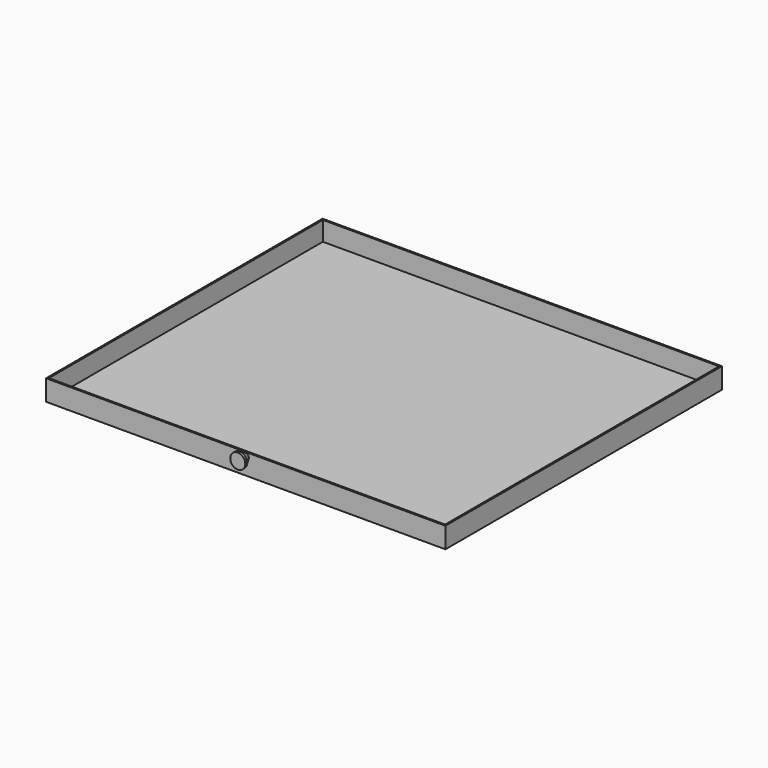
from build123d import *

# Parameters (mm, degrees)
F0_W     = 520
F0_H     = 450
F1_DEPTH = 2
F2_W     = 520
F2_H     = 450
F2_W_2   = 516
F2_H_2   = 446
F3_DEPTH = 25
F4_R     = 4
F5_DEPTH = 10
F5_TAPER = -30
F6_DEPTH = 3


with BuildPart() as f1:
    # F0 (on Top) → F1 (new body)
    with BuildSketch(Plane.XY):
        with Locations((-200.6801323552, -47.4835533649)):
            Rectangle(F0_W, F0_H)
    extrude(amount=F1_DEPTH)

    # F2 (on face) → F3 (join)
    with BuildSketch(Plane.XY.offset(2)):
        with Locations((-200.6801323552, -47.4835533649)):
            Rectangle(F2_W, F2_H)
        with Locations((-200.6801323552, -47.4835533649)):
            Rectangle(F2_W_2, F2_H_2, mode=Mode.SUBTRACT)
    extrude(amount=F3_DEPTH)

    # F4 (on face) → F5 (join)
    with BuildSketch(Plane.XZ.offset(272.4835533649)):
        with Locations((-200.6801323552, 21.8899310641)):
            Circle(F4_R)
    extrude(amount=F5_DEPTH, taper=F5_TAPER)


with BuildPart() as f6:
    # F6 (new): a face of the model
    f6_faces = [f1.part.faces().sort_by_distance(p)[0] for p in [
        (-200.6801323552, -282.4835533649, 21.8899310641),
    ]]
    extrude(f6_faces, amount=F6_DEPTH)


solid = Compound([f1.part, f6.part])
